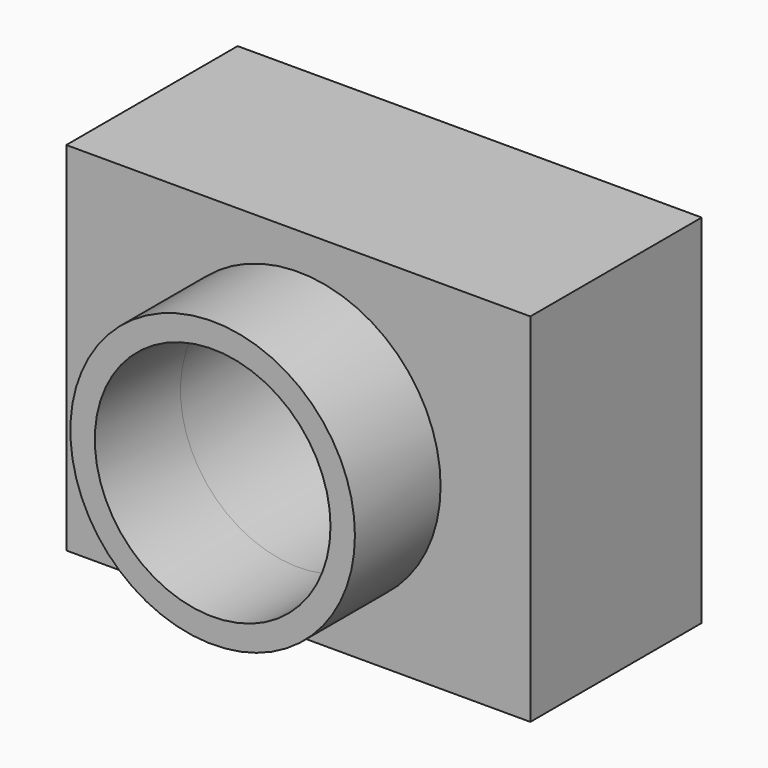
from build123d import *

# Parameters (mm, degrees)
F0_W      = 130
F0_H      = 100
F1_DEPTH  = 30
F1_FACE_W = 130
F1_FACE_H = 100
F2_DEPTH  = 30
F3_R      = 39.856576
F3_R_2    = 33.013894
F4_DEPTH  = 30
F4_FACE_R = 33.013894
F5_DEPTH  = 60


with BuildPart() as f1:
    # F0 (on Front) → F1 (new body)
    with BuildSketch(Plane.XZ):
        Rectangle(F0_W, F0_H)
    extrude(amount=F1_DEPTH)

    # F1_face (on face) → F2 (join)
    with BuildSketch(Plane(origin=(0, 0, 0), x_dir=(1, 0, 0), z_dir=(0, 1, 0))):
        Rectangle(F1_FACE_W, F1_FACE_H)
    extrude(amount=F2_DEPTH)

    # F3 (on face) → F4 (join)
    with BuildSketch(Plane.XZ.offset(30)):
        Circle(F3_R)
        Circle(F3_R_2, mode=Mode.SUBTRACT)
    extrude(amount=F4_DEPTH)

    # F4_face (on face) → F5 (cut)
    with BuildSketch(Plane.XZ.offset(30)):
        Circle(F4_FACE_R)
    extrude(amount=-F5_DEPTH, mode=Mode.SUBTRACT)


solid = f1.part
